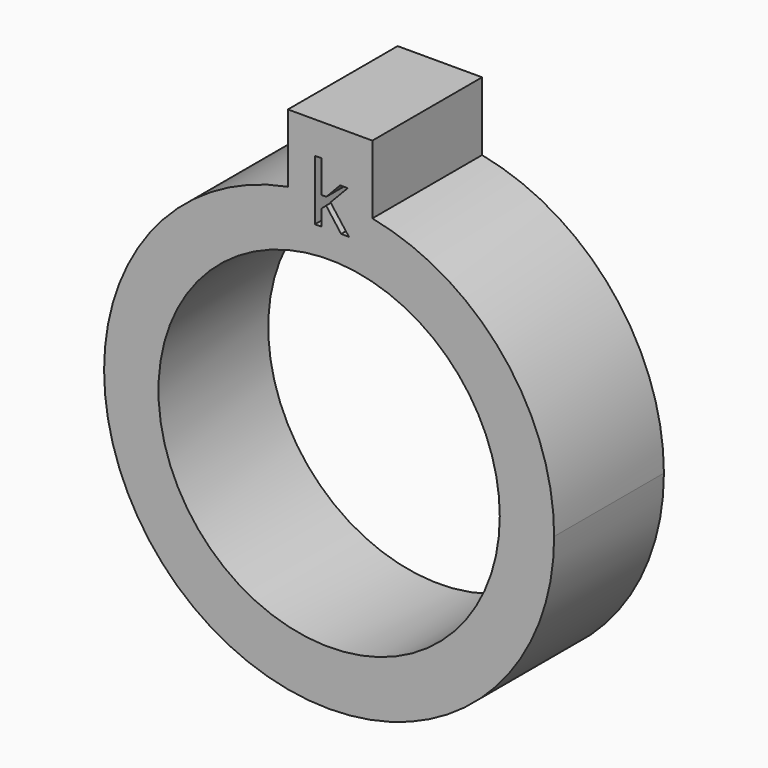
from build123d import *

# Parameters (mm, degrees)
F1_DEPTH = 10.16
F2_DEPTH = 12.7


with BuildPart() as f1:
    # F0 (on Front) → F1 (new body)
    with BuildSketch(Plane.XZ):
        with BuildLine():
            ThreePointArc((4.0007179822, 15.285099137), (12.5070249084, 9.654756752), (15.8, 0))
            ThreePointArc((15.8, 0), (-9.7296675451, -12.4488380768), (-3.8169075269, 15.332032381))
            Line((-3.8169075269, 15.332032381), (-3.8169075269, 20.4823272433))
            ThreePointArc((-3.8169075269, 20.4823272433), (-13.314831815, -16.0252852116), (20.834934902, 0))
            ThreePointArc((20.834934902, 0), (16.0849185744, 13.2427303388), (4.0007179822, 20.4472190774))
            Line((4.0007179822, 20.4472190774), (4.0007179822, 15.285099137))
        make_face()
        with BuildLine():
            ThreePointArc((-3.8169075269, 15.332032381), (0.0948538519, 15.7997152742), (4.0007179822, 15.285099137))
            Line((4.0007179822, 15.285099137), (4.0007179822, 20.4472190774))
            ThreePointArc((4.0007179822, 20.4472190774), (2.2310298491, 20.7151398302), (0.4448769206, 20.8301847543))
            Line((0.4448769206, 20.8301847543), (0.1276157176, 20.4966947721))
            Line((0.1276157176, 20.4966947721), (1.8328047784, 18.239185214))
            Line((1.8328047784, 18.239185214), (1.1116877884, 18.239185214))
            Line((1.1116877884, 18.239185214), (-0.2777255205, 20.0982431868))
            Line((-0.2777255205, 20.0982431868), (-0.7255529506, 19.7101260807))
            Line((-0.7255529506, 19.7101260807), (-0.7255529506, 18.239185214))
            Line((-0.7255529506, 18.239185214), (-1.3146182626, 18.239185214))
            Line((-1.3146182626, 18.239185214), (-1.3146182626, 20.7934194205))
            ThreePointArc((-1.3146182626, 20.7934194205), (-2.5704734618, 20.6757630707), (-3.8169075269, 20.4823272433))
            Line((-3.8169075269, 20.4823272433), (-3.8169075269, 15.332032381))
        make_face()
        with BuildLine():
            ThreePointArc((0.4448769206, 20.8301847543), (2.2310298491, 20.7151398302), (4.0007179822, 20.4472190774))
            Line((4.0007179822, 20.4472190774), (4.0007179822, 26.7865807325))
            Line((4.0007179822, 26.7865807325), (-3.8169075269, 26.7865807325))
            Line((-3.8169075269, 26.7865807325), (-3.8169075269, 20.4823272433))
            ThreePointArc((-3.8169075269, 20.4823272433), (-2.5704734618, 20.6757630707), (-1.3146182626, 20.7934194205))
            Line((-1.3146182626, 20.7934194205), (-1.3146182626, 23.8232487851))
            Line((-1.3146182626, 23.8232487851), (-0.7255529506, 23.8232487851))
            Line((-0.7255529506, 23.8232487851), (-0.7255529506, 20.861846369))
            add(Edge.make_bspline(
                [(-0.7255529506, 20.861846369), (-0.7255529506, 20.843060722), (-0.7258157075, 20.8222886334)],
                knots=[0, 0, 0, 0.0956718037, 0.0956718037, 0.0956718037], degree=2))
            ThreePointArc((-0.7258157075, 20.8222886334), (-0.4874986739, 20.8292308407), (-0.2491178041, 20.833445531))
            Line((-0.2491178041, 20.833445531), (1.0140843741, 22.172028671))
            Line((1.0140843741, 22.172028671), (1.7214220586, 22.172028671))
            Line((1.7214220586, 22.172028671), (0.4448769206, 20.8301847543))
        make_face()
    extrude(amount=F1_DEPTH)

    # F0 (on Front) → F2 (join)
    with BuildSketch(Plane.XZ):
        with BuildLine():
            ThreePointArc((4.0007179822, 15.285099137), (12.5070249084, 9.654756752), (15.8, 0))
            ThreePointArc((15.8, 0), (-9.7296675451, -12.4488380768), (-3.8169075269, 15.332032381))
            Line((-3.8169075269, 15.332032381), (-3.8169075269, 20.4823272433))
            ThreePointArc((-3.8169075269, 20.4823272433), (-13.314831815, -16.0252852116), (20.834934902, 0))
            ThreePointArc((20.834934902, 0), (16.0849185744, 13.2427303388), (4.0007179822, 20.4472190774))
            Line((4.0007179822, 20.4472190774), (4.0007179822, 15.285099137))
        make_face()
        with BuildLine():
            ThreePointArc((-3.8169075269, 15.332032381), (0.0948538519, 15.7997152742), (4.0007179822, 15.285099137))
            Line((4.0007179822, 15.285099137), (4.0007179822, 20.4472190774))
            ThreePointArc((4.0007179822, 20.4472190774), (2.2310298491, 20.7151398302), (0.4448769206, 20.8301847543))
            Line((0.4448769206, 20.8301847543), (0.1276157176, 20.4966947721))
            Line((0.1276157176, 20.4966947721), (1.8328047784, 18.239185214))
            Line((1.8328047784, 18.239185214), (1.1116877884, 18.239185214))
            Line((1.1116877884, 18.239185214), (-0.2777255205, 20.0982431868))
            Line((-0.2777255205, 20.0982431868), (-0.7255529506, 19.7101260807))
            Line((-0.7255529506, 19.7101260807), (-0.7255529506, 18.239185214))
            Line((-0.7255529506, 18.239185214), (-1.3146182626, 18.239185214))
            Line((-1.3146182626, 18.239185214), (-1.3146182626, 20.7934194205))
            ThreePointArc((-1.3146182626, 20.7934194205), (-2.5704734618, 20.6757630707), (-3.8169075269, 20.4823272433))
            Line((-3.8169075269, 20.4823272433), (-3.8169075269, 15.332032381))
        make_face()
        with BuildLine():
            ThreePointArc((0.4448769206, 20.8301847543), (2.2310298491, 20.7151398302), (4.0007179822, 20.4472190774))
            Line((4.0007179822, 20.4472190774), (4.0007179822, 26.7865807325))
            Line((4.0007179822, 26.7865807325), (-3.8169075269, 26.7865807325))
            Line((-3.8169075269, 26.7865807325), (-3.8169075269, 20.4823272433))
            ThreePointArc((-3.8169075269, 20.4823272433), (-2.5704734618, 20.6757630707), (-1.3146182626, 20.7934194205))
            Line((-1.3146182626, 20.7934194205), (-1.3146182626, 23.8232487851))
            Line((-1.3146182626, 23.8232487851), (-0.7255529506, 23.8232487851))
            Line((-0.7255529506, 23.8232487851), (-0.7255529506, 20.861846369))
            add(Edge.make_bspline(
                [(-0.7255529506, 20.861846369), (-0.7255529506, 20.843060722), (-0.7258157075, 20.8222886334)],
                knots=[0, 0, 0, 0.0956718037, 0.0956718037, 0.0956718037], degree=2))
            ThreePointArc((-0.7258157075, 20.8222886334), (-0.4874986739, 20.8292308407), (-0.2491178041, 20.833445531))
            Line((-0.2491178041, 20.833445531), (1.0140843741, 22.172028671))
            Line((1.0140843741, 22.172028671), (1.7214220586, 22.172028671))
            Line((1.7214220586, 22.172028671), (0.4448769206, 20.8301847543))
        make_face()
    extrude(amount=F2_DEPTH)


solid = f1.part
